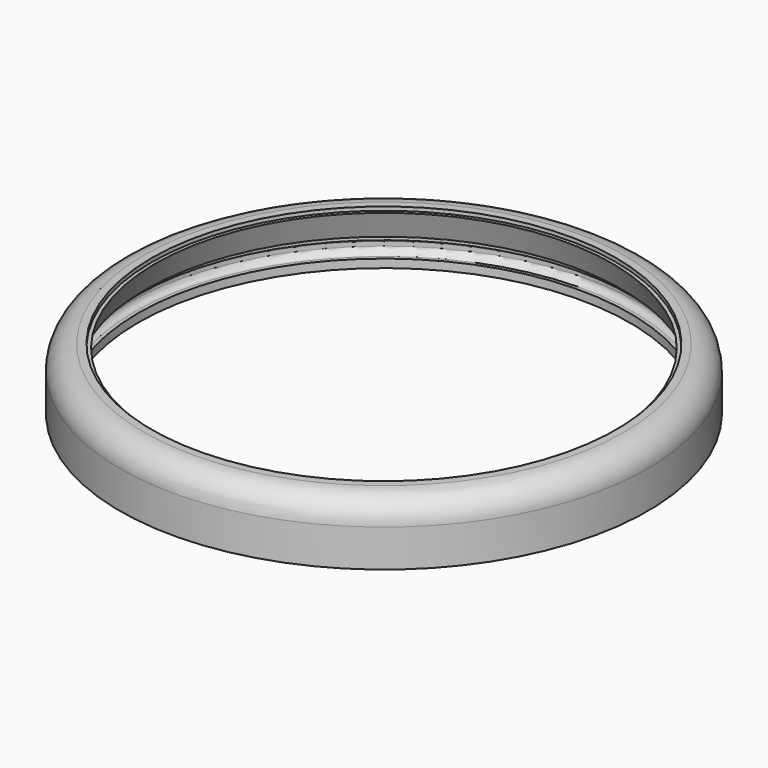
from build123d import *

# Parameters (mm, degrees)
F0_W = 2.032
F0_H = 1.44033
F2_R = 1.27
F3_R = 5.08


with BuildPart() as f1:
    # F0 (on Front) → F1 (revolve)
    with BuildSketch(Plane.XZ):
        Polygon((-49.180098, 5.557153), (-49.180098, 6.35), (-50.292, 6.35), (-50.419, 6.35), (-55.88, 6.35), (-55.88, -6.64733), (-53.34, -6.64733), (-54.102, -4.86933), (-54.102, -1.44033), (-54.102, 0), (-52.07, 0), (-50.546, 0), (-48.416793, 5.557153), align=None)
        Polygon((-54.102, -4.86933), (-53.34, -6.64733), (-52.07, -6.64733), (-52.07, -4.86933), align=None)
        with Locations((-53.086, -0.720165)):
            Rectangle(F0_W, F0_H)
    revolve(axis=Axis((0, 0, 3.175), (0, 0, 1)))

    # F2
    f2_edges = [f1.edges().sort_by_distance(p)[0] for p in [
        (54.102, 0, -1.44033),
        (54.102, 0, -4.86933),
    ]]
    fillet(f2_edges, radius=F2_R)

    # F3
    f3_edges = [f1.edges().sort_by_distance(p)[0] for p in [
        (55.88, 0, 6.35),
    ]]
    fillet(f3_edges, radius=F3_R)


solid = f1.part
